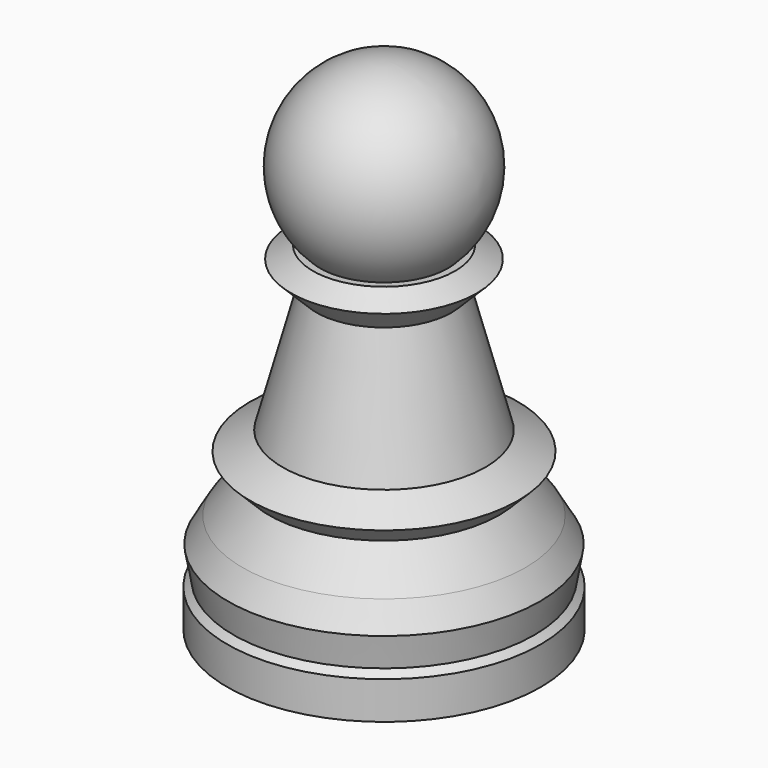
from build123d import *

# Parameters (mm, degrees)
F0_R      = 12.5
F1_DEPTH  = 3
F1_FACE_R = 12.5
F2_DEPTH  = 0.5
F2_TAPER  = 45
F2_FACE_R = 12
F3_DEPTH  = 2.5
F3_TAPER  = -10
F3_FACE_R = 12.4408174518
F4_DEPTH  = 2
F4_TAPER  = 30
F4_FACE_R = 11.2861169134
F5_DEPTH  = 3
F5_TAPER  = 35
F5_FACE_R = 9.1854942988
F6_DEPTH  = 1.5
F6_TAPER  = -45
F6_FACE_R = 10.6854942988
F7_DEPTH  = 1.5
F7_TAPER  = 60
F7_FACE_R = 8.0874180874
F8_DEPTH  = 10
F8_TAPER  = 15
F8_FACE_R = 5.4079261631
F9_DEPTH  = 2
F9_TAPER  = -45
F9_FACE_R = 7.4079261631
F10_DEPTH = 1
F10_TAPER = 60


with BuildPart() as f1:
    # F0 (on Top) → F1 (new body)
    with BuildSketch(Plane.XY):
        Circle(F0_R)
    extrude(amount=F1_DEPTH)

    # F1_face (on face) → F2 (join)
    with BuildSketch(Plane.XY.offset(3)):
        Circle(F1_FACE_R)
    extrude(amount=F2_DEPTH, taper=F2_TAPER)

    # F2_face (on face) → F3 (join)
    with BuildSketch(Plane.XY.offset(3.5)):
        Circle(F2_FACE_R)
    extrude(amount=F3_DEPTH, taper=F3_TAPER)

    # F3_face (on face) → F4 (join)
    with BuildSketch(Plane.XY.offset(6)):
        Circle(F3_FACE_R)
    extrude(amount=F4_DEPTH, taper=F4_TAPER)

    # F4_face (on face) → F5 (join)
    with BuildSketch(Plane.XY.offset(8)):
        Circle(F4_FACE_R)
    extrude(amount=F5_DEPTH, taper=F5_TAPER)

    # F5_face (on face) → F6 (join)
    with BuildSketch(Plane.XY.offset(11)):
        Circle(F5_FACE_R)
    extrude(amount=F6_DEPTH, taper=F6_TAPER)

    # F6_face (on face) → F7 (join)
    with BuildSketch(Plane.XY.offset(12.5)):
        Circle(F6_FACE_R)
    extrude(amount=F7_DEPTH, taper=F7_TAPER)

    # F7_face (on face) → F8 (join)
    with BuildSketch(Plane.XY.offset(14)):
        Circle(F7_FACE_R)
    extrude(amount=F8_DEPTH, taper=F8_TAPER)

    # F8_face (on face) → F9 (join)
    with BuildSketch(Plane.XY.offset(24)):
        Circle(F8_FACE_R)
    extrude(amount=F9_DEPTH, taper=F9_TAPER)

    # F9_face (on face) → F10 (join)
    with BuildSketch(Plane.XY.offset(26)):
        Circle(F9_FACE_R)
    extrude(amount=F10_DEPTH, taper=F10_TAPER)

    # F11 (on Front) → F12 (revolve)
    with BuildSketch(Plane.XZ):
        with BuildLine():
            ThreePointArc((0, 25), (5.3033008589, 27.1966991411), (7.5, 32.5))
            ThreePointArc((7.5, 32.5), (5.3033008589, 37.8033008589), (0, 40))
            Line((0, 40), (0, 25))
        make_face()
    revolve(axis=Axis((0, 0, 26.2095481157), (0, 0, 1)))


solid = f1.part
